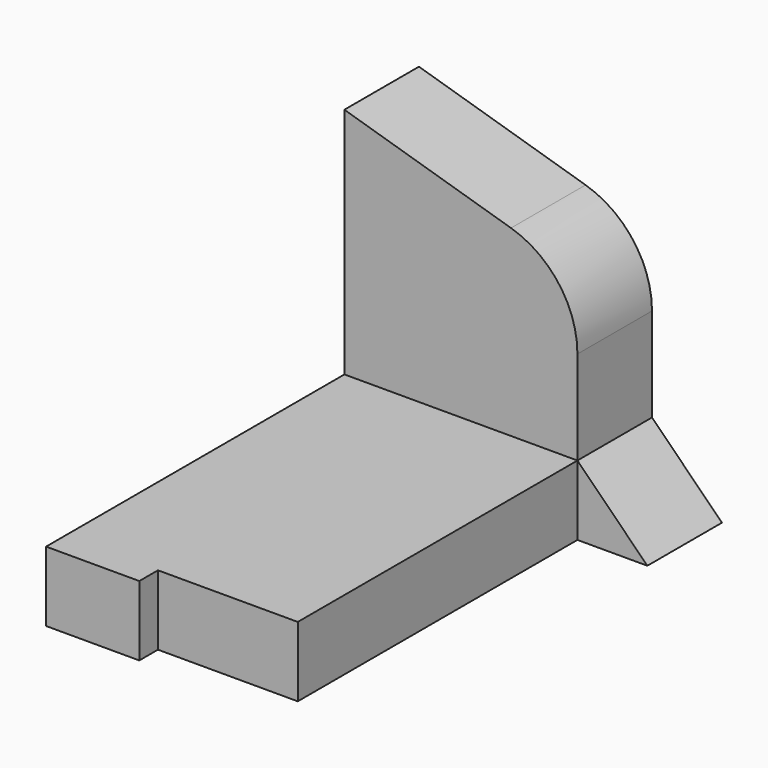
from build123d import *

# Parameters (mm, degrees)
F1_DEPTH = 15
F3_DEPTH = 20
F4_R     = 20
F6_DEPTH = 20


with BuildPart() as f1:
    # F0 (on Top) → F1 (new body)
    with BuildSketch(Plane.XY):
        Polygon((0, 100), (0, 0), (20, 0), (20, 5), (50, 5), (50, 100), align=None)
    extrude(amount=F1_DEPTH)

    # F2 (on face) → F3 (join)
    with BuildSketch(Plane(origin=(0, 100, 0), x_dir=(-1, 0, 0), z_dir=(0, 1, 0))):
        Polygon((-50, 15), (0, 15), (0, 65), (-50, 50), align=None)
    extrude(amount=-F3_DEPTH)

    # F4
    f4_edges = [f1.edges().sort_by_distance(p)[0] for p in [
        (50, 90, 50),
    ]]
    fillet(f4_edges, radius=F4_R)

    # F5 (on face) → F6 (join)
    with BuildSketch(Plane(origin=(0, 100, 0), x_dir=(-1, 0, 0), z_dir=(0, 1, 0))):
        Polygon((-65, 0), (-50, 0), (-50, 15), align=None)
    extrude(amount=-F6_DEPTH)


solid = f1.part
